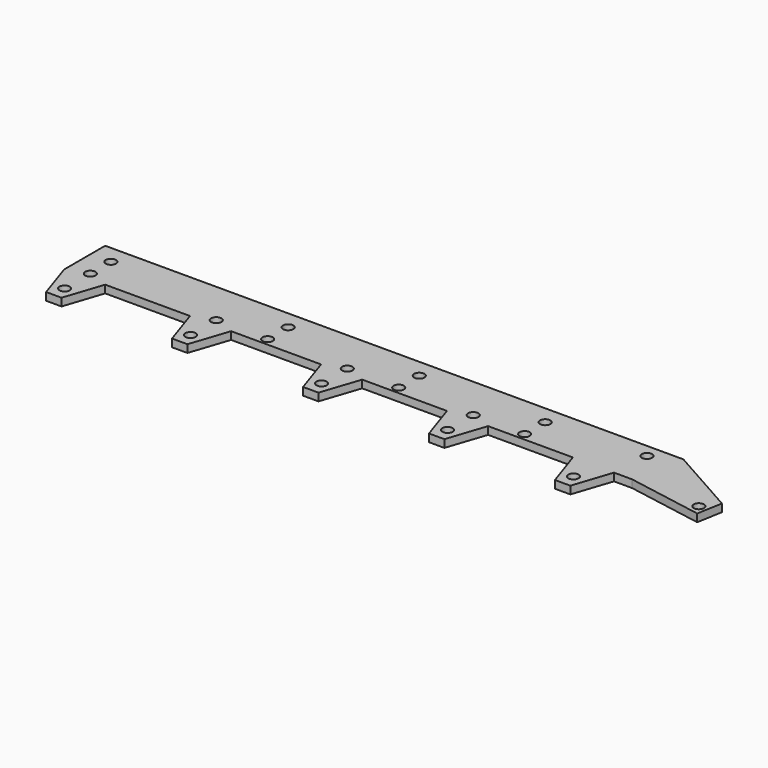
from build123d import *

# Parameters (mm, degrees)
CYLINDER012_R     = 2
CYLINDER012_DEPTH = 10
CYLINDER013_R     = 2
CYLINDER013_DEPTH = 10
CYLINDER014_R     = 2
CYLINDER014_DEPTH = 10
CYLINDER015_R     = 2
CYLINDER015_DEPTH = 10
CYLINDER016_R     = 2
CYLINDER016_DEPTH = 10
CYLINDER017_R     = 2
CYLINDER017_DEPTH = 10
CYLINDER018_R     = 2
CYLINDER018_DEPTH = 10
CYLINDER011_R     = 2
CYLINDER011_DEPTH = 10
CYLINDER007_R     = 2
CYLINDER007_DEPTH = 10
CYLINDER008_R     = 2
CYLINDER008_DEPTH = 10
CYLINDER009_R     = 2
CYLINDER009_DEPTH = 10
CYLINDER010_R     = 2
CYLINDER010_DEPTH = 10
CYLINDER006_R     = 2
CYLINDER006_DEPTH = 10
CYLINDER001_R     = 2
CYLINDER001_DEPTH = 10
CYLINDER005_R     = 2
CYLINDER005_DEPTH = 10
CYLINDER004_R     = 2
CYLINDER004_DEPTH = 10
CYLINDER003_R     = 2
CYLINDER003_DEPTH = 10
CYLINDER002_R     = 2
CYLINDER002_DEPTH = 10
CYLINDER_R        = 2
CYLINDER_DEPTH    = 10
PAD_DEPTH         = 3


with BuildPart() as cylinder012:
    # Cylinder012 → Cylinder012 (new body)
    with BuildSketch(Plane(origin=(37.5, -6.5, -5), x_dir=(1, 0, 0), z_dir=(0, 0, 1))):
        Circle(CYLINDER012_R)
    extrude(amount=CYLINDER012_DEPTH)


with BuildPart() as cylinder013:
    # Cylinder013 → Cylinder013 (new body)
    with BuildSketch(Plane(origin=(88.5, 3.5, -5), x_dir=(1, 0, 0), z_dir=(0, 0, 1))):
        Circle(CYLINDER013_R)
    extrude(amount=CYLINDER013_DEPTH)


with BuildPart() as cylinder014:
    # Cylinder014 → Cylinder014 (new body)
    with BuildSketch(Plane(origin=(88.5, -6.5, -5), x_dir=(1, 0, 0), z_dir=(0, 0, 1))):
        Circle(CYLINDER014_R)
    extrude(amount=CYLINDER014_DEPTH)


with BuildPart() as cylinder015:
    # Cylinder015 → Cylinder015 (new body)
    with BuildSketch(Plane(origin=(137.5, -6.5, -5), x_dir=(1, 0, 0), z_dir=(0, 0, 1))):
        Circle(CYLINDER015_R)
    extrude(amount=CYLINDER015_DEPTH)


with BuildPart() as cylinder016:
    # Cylinder016 → Cylinder016 (new body)
    with BuildSketch(Plane(origin=(137.5, 3.5, -5), x_dir=(1, 0, 0), z_dir=(0, 0, 1))):
        Circle(CYLINDER016_R)
    extrude(amount=CYLINDER016_DEPTH)


with BuildPart() as cylinder017:
    # Cylinder017 → Cylinder017 (new body)
    with BuildSketch(Plane(origin=(37.5, 3.5, -5), x_dir=(1, 0, 0), z_dir=(0, 0, 1))):
        Circle(CYLINDER017_R)
    extrude(amount=CYLINDER017_DEPTH)


with BuildPart() as cylinder018:
    # Cylinder018 → Cylinder018 (new body)
    with BuildSketch(Plane(origin=(117.5, -6.5, -5), x_dir=(1, 0, 0), z_dir=(0, 0, 1))):
        Circle(CYLINDER018_R)
    extrude(amount=CYLINDER018_DEPTH)


with BuildPart() as cylinder011:
    # Cylinder011 → Cylinder011 (new body)
    with BuildSketch(Plane(origin=(-31.5, 3.5, -5), x_dir=(1, 0, 0), z_dir=(0, 0, 1))):
        Circle(CYLINDER011_R)
    extrude(amount=CYLINDER011_DEPTH)


with BuildPart() as cylinder007:
    # Cylinder007 → Cylinder007 (new body)
    with BuildSketch(Plane(origin=(117.5, -6.5, -3), x_dir=(1, 0, 0), z_dir=(0, 0, 1))):
        Circle(CYLINDER007_R)
    extrude(amount=CYLINDER007_DEPTH)


with BuildPart() as cylinder008:
    # Cylinder008 → Cylinder008 (new body)
    with BuildSketch(Plane(origin=(68.5, -6.5, -3), x_dir=(1, 0, 0), z_dir=(0, 0, 1))):
        Circle(CYLINDER008_R)
    extrude(amount=CYLINDER008_DEPTH)


with BuildPart() as cylinder009:
    # Cylinder009 → Cylinder009 (new body)
    with BuildSketch(Plane(origin=(17.5, -6.5, -3), x_dir=(1, 0, 0), z_dir=(0, 0, 1))):
        Circle(CYLINDER009_R)
    extrude(amount=CYLINDER009_DEPTH)


with BuildPart() as cylinder010:
    # Cylinder010 → Cylinder010 (new body)
    with BuildSketch(Plane(origin=(-31.5, -6.5, -3), x_dir=(1, 0, 0), z_dir=(0, 0, 1))):
        Circle(CYLINDER010_R)
    extrude(amount=CYLINDER010_DEPTH)


with BuildPart() as cylinder006:
    # Cylinder006 → Cylinder006 (new body)
    with BuildSketch(Plane(origin=(175.5, 5.5, -3), x_dir=(1, 0, 0), z_dir=(0, 0, 1))):
        Circle(CYLINDER006_R)
    extrude(amount=CYLINDER006_DEPTH)


with BuildPart() as cylinder001:
    # Cylinder001 → Cylinder001 (new body)
    with BuildSketch(Plane(origin=(166.5, -19, -3), x_dir=(1, 0, 0), z_dir=(0, 0, 1))):
        Circle(CYLINDER001_R)
    extrude(amount=CYLINDER001_DEPTH)


with BuildPart() as cylinder005:
    # Cylinder005 → Cylinder005 (new body)
    with BuildSketch(Plane(origin=(208.5, -10.5, -3), x_dir=(1, 0, 0), z_dir=(0, 0, 1))):
        Circle(CYLINDER005_R)
    extrude(amount=CYLINDER005_DEPTH)


with BuildPart() as cylinder004:
    # Cylinder004 → Cylinder004 (new body)
    with BuildSketch(Plane(origin=(-31.5, -19, -3), x_dir=(1, 0, 0), z_dir=(0, 0, 1))):
        Circle(CYLINDER004_R)
    extrude(amount=CYLINDER004_DEPTH)


with BuildPart() as cylinder003:
    # Cylinder003 → Cylinder003 (new body)
    with BuildSketch(Plane(origin=(68.5, -19, -3), x_dir=(1, 0, 0), z_dir=(0, 0, 1))):
        Circle(CYLINDER003_R)
    extrude(amount=CYLINDER003_DEPTH)


with BuildPart() as cylinder002:
    # Cylinder002 → Cylinder002 (new body)
    with BuildSketch(Plane(origin=(117.5, -19, -3), x_dir=(1, 0, 0), z_dir=(0, 0, 1))):
        Circle(CYLINDER002_R)
    extrude(amount=CYLINDER002_DEPTH)


with BuildPart() as cylinder:
    # Cylinder → Cylinder (new body)
    with BuildSketch(Plane(origin=(17.5, -19, -3), x_dir=(1, 0, 0), z_dir=(0, 0, 1))):
        Circle(CYLINDER_R)
    extrude(amount=CYLINDER_DEPTH)


with BuildPart() as cut018:
    # Sketch001 → Pad (new body)
    with BuildSketch(Plane.XY):
        Polygon((-43.448801, 7.664407), (181.551199, 7.664407), (208.831914, -7.696961), (207.095432, -17.545038), (177.551199, -12.335593), (170.551199, -12.335593), (165.551199, -27.335593), (159.551199, -27.335593), (154.551199, -12.335593), (121.551199, -12.335593), (116.551199, -27.335593), (110.551199, -27.335593), (105.551199, -12.335593), (72.551199, -12.335593), (67.551199, -27.335593), (61.551199, -27.335593), (56.551199, -12.335593), (21.551199, -12.335593), (16.551199, -27.335593), (10.551199, -27.335593), (5.551199, -12.335593), (-27.448801, -12.335593), (-32.448801, -27.335593), (-38.448801, -27.335593), (-43.448801, -12.335593), align=None)
    extrude(amount=PAD_DEPTH)


with BuildPart() as cut018_1:
    # Body001 placement: moved
    add(cut018.part.moved(Location((4, 3, 0))))

    # Cut: cut Cylinder
    add(cylinder.part, mode=Mode.SUBTRACT)

    # Cut001: cut Cylinder002
    add(cylinder002.part, mode=Mode.SUBTRACT)

    # Cut002: cut Cylinder003
    add(cylinder003.part, mode=Mode.SUBTRACT)

    # Cut003: cut Cylinder004
    add(cylinder004.part, mode=Mode.SUBTRACT)

    # Cut004: cut Cylinder005
    add(cylinder005.part, mode=Mode.SUBTRACT)

    # Cut005: cut Cylinder001
    add(cylinder001.part, mode=Mode.SUBTRACT)

    # Cut006: cut Cylinder006
    add(cylinder006.part, mode=Mode.SUBTRACT)

    # Cut007: cut Cylinder010
    add(cylinder010.part, mode=Mode.SUBTRACT)

    # Cut008: cut Cylinder009
    add(cylinder009.part, mode=Mode.SUBTRACT)

    # Cut009: cut Cylinder008
    add(cylinder008.part, mode=Mode.SUBTRACT)

    # Cut010: cut Cylinder007
    add(cylinder007.part, mode=Mode.SUBTRACT)

    # Cut011: cut Cylinder011
    add(cylinder011.part, mode=Mode.SUBTRACT)

    # Cut012: cut Cylinder018
    add(cylinder018.part, mode=Mode.SUBTRACT)

    # Cut013: cut Cylinder017
    add(cylinder017.part, mode=Mode.SUBTRACT)

    # Cut014: cut Cylinder016
    add(cylinder016.part, mode=Mode.SUBTRACT)

    # Cut015: cut Cylinder015
    add(cylinder015.part, mode=Mode.SUBTRACT)

    # Cut016: cut Cylinder014
    add(cylinder014.part, mode=Mode.SUBTRACT)

    # Cut017: cut Cylinder013
    add(cylinder013.part, mode=Mode.SUBTRACT)

    # Cut018: cut Cylinder012
    add(cylinder012.part, mode=Mode.SUBTRACT)


solid = cut018_1.part
